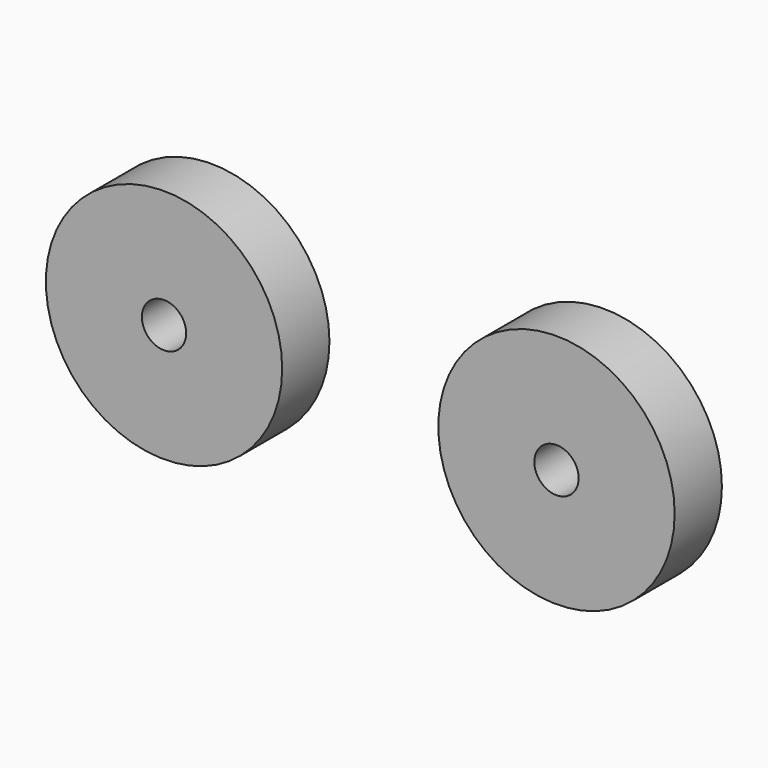
from build123d import *

# Parameters (mm, degrees)
F0_R     = 25.4
F0_R_2   = 4.7625
F1_DEPTH = 12.7


with BuildPart() as f1:
    # F0 (on Front) → F1 (new body)
    with BuildSketch(Plane.XZ):
        with Locations((-42.181842, 38.256187)):
            Circle(F0_R)
        with Locations((-42.181842, 38.256187)):
            Circle(F0_R_2, mode=Mode.SUBTRACT)
        with Locations((42.181842, 38.256187)):
            Circle(F0_R)
        with Locations((42.181842, 38.256187)):
            Circle(F0_R_2, mode=Mode.SUBTRACT)
    extrude(amount=F1_DEPTH)


solid = f1.part
